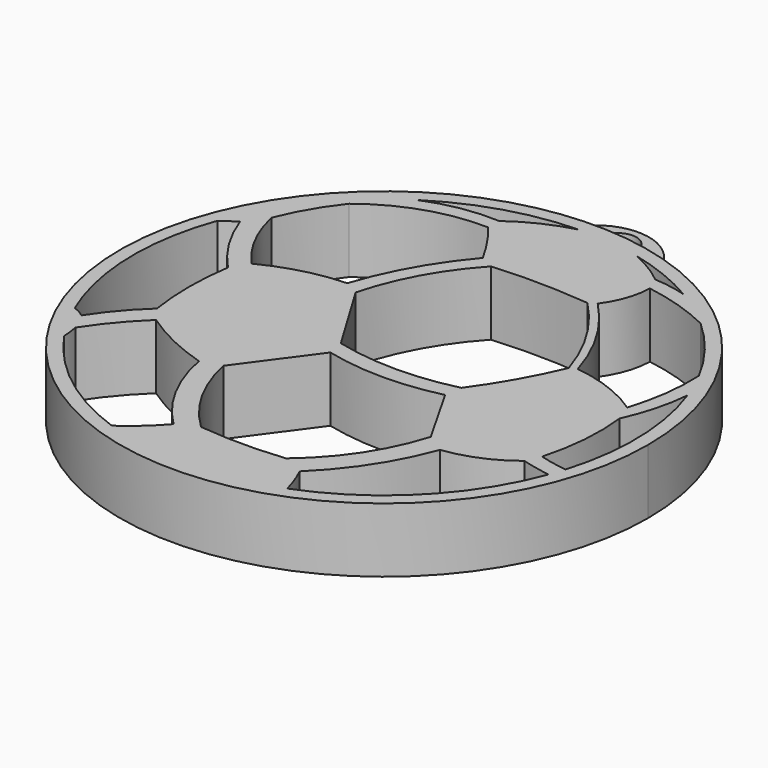
from build123d import *

# Parameters (mm, degrees)
F1_DEPTH = 5.588
F0_R     = 1.5875
F2_DEPTH = 3.175


with BuildPart() as f1:
    # F0 (on Top) → F1 (new body)
    with BuildSketch(Plane.XY):
        with BuildLine():
            ThreePointArc((-2.799588, 28.616356), (-12.598289, -11.49637), (24.694917, 6.231072))
            ThreePointArc((24.694917, 6.231072), (19.562358, 20.664277), (6.469421, 28.616356))
            ThreePointArc((6.469421, 28.616356), (1.834917, 29.091072), (-2.799588, 28.616356))
        make_face()
        with BuildLine():
            ThreePointArc((-5.369862, -14.225706), (-11.397518, -10.952969), (-16.101802, -5.961661))
            ThreePointArc((-16.101802, -5.961661), (-16.153461, -5.251027), (-16.274676, -4.548904))
            ThreePointArc((-16.274676, -4.548904), (-14.617901, -2.300976), (-12.707877, -0.263846))
            ThreePointArc((-12.707877, -0.263846), (-9.80272, -1.945343), (-6.675045, -3.163954))
            ThreePointArc((-6.675045, -3.163954), (-5.100362, -7.640459), (-2.253338, -11.436929))
            ThreePointArc((-2.253338, -11.436929), (-3.721621, -12.931872), (-5.369862, -14.225706))
        make_face(mode=Mode.SUBTRACT)
        with BuildLine():
            ThreePointArc((-18.082916, -2.351967), (-19.844564, 5.607587), (-18.543271, 13.655228))
            Line((-18.543271, 13.655228), (-17.270199, 14.533076))
            ThreePointArc((-17.270199, 14.533076), (-15.785824, 11.462826), (-13.704401, 8.76144))
            ThreePointArc((-13.704401, 8.76144), (-13.996186, 4.919357), (-13.704401, 1.077274))
            ThreePointArc((-13.704401, 1.077274), (-15.513504, -0.802895), (-17.065671, -2.900195))
            ThreePointArc((-17.065671, -2.900195), (-17.546558, -2.574616), (-18.082916, -2.351967))
        make_face(mode=Mode.SUBTRACT)
        with BuildLine():
            ThreePointArc((22.149822, -1.364534), (17.251466, -9.024046), (9.64394, -14.002755))
            ThreePointArc((9.64394, -14.002755), (9.244871, -12.732225), (8.723306, -11.50688))
            ThreePointArc((8.723306, -11.50688), (11.917547, -7.623779), (14.162866, -3.124869))
            ThreePointArc((14.162866, -3.124869), (17.057838, -2.357953), (19.630023, -0.824041))
            ThreePointArc((19.630023, -0.824041), (20.882224, -1.13018), (22.149822, -1.364534))
        make_face(mode=Mode.SUBTRACT)
        with BuildLine():
            ThreePointArc((-0.539564, -10.602418), (-3.361813, -6.969483), (-4.954739, -2.653711))
            Line((-4.954739, -2.653711), (-0.53185, 3.376688))
            ThreePointArc((-0.53185, 3.376688), (4.442387, 2.774831), (9.417674, 3.36794))
            Line((9.417674, 3.36794), (12.491665, -2.036115))
            ThreePointArc((12.491665, -2.036115), (10.283672, -6.735963), (6.817503, -10.602418))
            ThreePointArc((6.817503, -10.602418), (3.138969, -10.796056), (-0.539564, -10.602418))
        make_face(mode=Mode.SUBTRACT)
        with BuildLine():
            ThreePointArc((20.173145, 0.418834), (20.847319, 4.204631), (20.781009, 8.049416))
            ThreePointArc((20.781009, 8.049416), (21.749844, 10.743143), (22.246701, 13.562352))
            ThreePointArc((22.246701, 13.562352), (23.516492, 6.776863), (22.589715, -0.06392))
            ThreePointArc((22.589715, -0.06392), (21.370847, 0.124476), (20.173145, 0.418834))
        make_face(mode=Mode.SUBTRACT)
        with BuildLine():
            ThreePointArc((-15.963672, 16.307464), (-14.733515, 18.843029), (-13.14645, 21.171891))
            ThreePointArc((-13.14645, 21.171891), (-8.670762, 23.594902), (-3.63687, 24.345036))
            ThreePointArc((-3.63687, 24.345036), (-2.297105, 22.543175), (-1.13104, 20.62433))
            ThreePointArc((-1.13104, 20.62433), (-3.970215, 16.553071), (-5.971208, 12.010815))
            ThreePointArc((-5.971208, 12.010815), (-9.49366, 11.485055), (-12.815938, 10.20187))
            ThreePointArc((-12.815938, 10.20187), (-14.794346, 13.046106), (-15.963672, 16.307464))
        make_face(mode=Mode.SUBTRACT)
        with BuildLine():
            ThreePointArc((1.375797, 27.914656), (-1.246765, 26.971986), (-3.638193, 25.541065))
            ThreePointArc((-3.638193, 25.541065), (-6.82851, 25.352013), (-9.900401, 24.470341))
            ThreePointArc((-9.900401, 24.470341), (-4.500847, 26.973461), (1.375797, 27.914656))
        make_face(mode=Mode.SUBTRACT)
        with BuildLine():
            Line((-0.814806, 4.867908), (-4.685726, 11.308071))
            ThreePointArc((-4.685726, 11.308071), (-2.843515, 15.954202), (0.081828, 20.006689))
            ThreePointArc((0.081828, 20.006689), (4.298062, 20.138545), (8.50931, 19.894825))
            ThreePointArc((8.50931, 19.894825), (11.480397, 16.077327), (13.477047, 11.671189))
            ThreePointArc((13.477047, 11.671189), (11.741579, 8.160706), (9.621952, 4.867908))
            ThreePointArc((9.621952, 4.867908), (4.403573, 4.235942), (-0.814806, 4.867908))
        make_face(mode=Mode.SUBTRACT)
        with BuildLine():
            ThreePointArc((10.484066, 24.194032), (13.488074, 23.481635), (16.356681, 22.340291))
            ThreePointArc((16.356681, 22.340291), (18.980093, 19.513824), (21.061465, 16.267427))
            ThreePointArc((21.061465, 16.267427), (20.915004, 12.905343), (20.173145, 9.622858))
            ThreePointArc((20.173145, 9.622858), (17.24992, 11.144383), (14.049745, 11.931256))
            ThreePointArc((14.049745, 11.931256), (12.086703, 16.392472), (9.114349, 20.255255))
            ThreePointArc((9.114349, 20.255255), (10.099355, 22.120266), (10.484066, 24.194032))
        make_face(mode=Mode.SUBTRACT)
        with BuildLine():
            ThreePointArc((12.790839, 24.948881), (11.385585, 25.277937), (9.95159, 25.441265))
            ThreePointArc((9.95159, 25.441265), (8.440252, 26.514134), (6.784581, 27.347166))
            ThreePointArc((6.784581, 27.347166), (9.877607, 26.37316), (12.790839, 24.948881))
        make_face(mode=Mode.SUBTRACT)
    extrude(amount=F1_DEPTH)

    # F0 (on Top) → F2 (join)
    with BuildSketch(Plane.XY):
        with BuildLine():
            ThreePointArc((-2.799588, 28.616356), (1.834917, 29.091072), (6.469421, 28.616356))
            ThreePointArc((6.469421, 28.616356), (1.834917, 33.749825), (-2.799588, 28.616356))
        make_face()
        with Locations((1.834917, 31.558864)):
            Circle(F0_R, mode=Mode.SUBTRACT)
    extrude(amount=F2_DEPTH)


solid = f1.part
